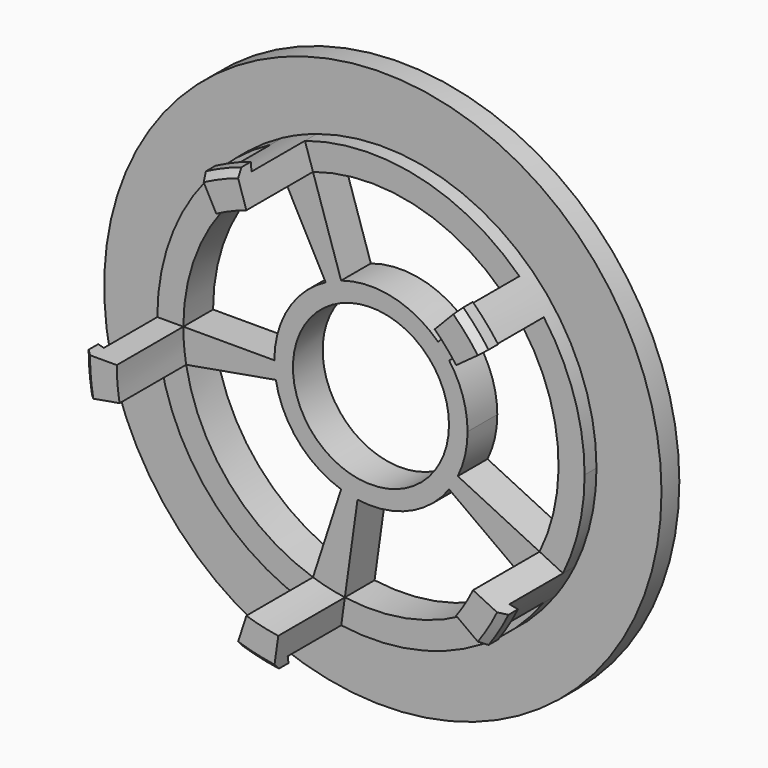
from build123d import *

# Parameters (mm, degrees)
F0_R     = 37.5
F0_R_2   = 28.75
F0_R_3   = 10.5
F1_DEPTH = 3
F3_ANGLE = 10
F4_COUNT = 5
F5_DEPTH = 5
F6_SIZE  = 0.9
F8_DEPTH = 25


with BuildPart() as f1:
    # F0 (on Front) → F1 (new body)
    with BuildSketch(Plane.XZ):
        Circle(F0_R)
        Circle(F0_R_2, mode=Mode.SUBTRACT)
        Circle(F0_R_2)
        Circle(F0_R_3, mode=Mode.SUBTRACT)
    extrude(amount=F1_DEPTH)

    # F2 (on Top) → F3 (revolve)
    with BuildSketch(Plane.XY):
        Polygon((-25.25, -16.2), (-25.25, -3), (-28.75, -3), (-28.75, -14), (-29.75, -13.7), (-29.75, -16.2), align=None)
    revolve(axis=Axis((0, 0, 0), (0, -1, 0)), revolution_arc=F3_ANGLE)

    # F4: F1 ×5 about axis
    f4_axis = Axis((0, 0, 0), (0, -1, 0))


with BuildPart() as f1_1:
    add(f1.part)
    for i in range(1, F4_COUNT):
        add(f1.part.rotate(f4_axis, i * 360 / F4_COUNT))

    # F0 (on Front) → F5 (join)
    with BuildSketch(Plane.XZ):
        Circle(F0_R_2)
        Circle(F0_R_3, mode=Mode.SUBTRACT)
    extrude(amount=F5_DEPTH)

    # F6
    f6_edges = [f1_1.edges().sort_by_distance(p)[0] for p in [
        (-29.636792, -16.2, -2.592883),
        (-6.692294, -16.2, -28.987509),
        (25.500727, -16.2, -15.322383),
        (22.45261, -16.2, 19.517756),
        (-11.624251, -16.2, 27.385019),
    ]]
    chamfer(f6_edges, length=F6_SIZE)

    # F7 (on face) → F8 (cut)
    with BuildSketch(Plane.XZ.offset(5)):
        with BuildLine():
            ThreePointArc((-13, 0), (-11.1431749091, 6.6954949738), (-6.1031303162, 11.4783187072))
            Line((-6.1031303162, 11.4783187072), (-11.8541569603, 22.2944267197))
            ThreePointArc((-11.8541569603, 22.2944267197), (-21.6434743427, 13.0047113915), (-25.25, 0))
            Line((-25.25, 0), (-13, 0))
        make_face()
        with BuildLine():
            Line((-7.802679108, -24.0141770365), (-4.0172209269, -12.3637347118))
            ThreePointArc((-4.0172209269, -12.3637347118), (-9.8112245429, -8.5287673769), (-12.8025007892, -2.2574263097))
            Line((-12.8025007892, -2.2574263097), (-24.8663957636, -4.3846164861))
            ThreePointArc((-24.8663957636, -4.3846164861), (-19.0564169006, -16.565490482), (-7.802679108, -24.0141770365))
        make_face()
        with BuildLine():
            Line((20.427679108, -14.8415776204), (10.5172209269, -7.6412082798))
            ThreePointArc((10.5172209269, -7.6412082798), (5.0795046704, -11.9665630949), (-1.8092503125, -12.8734848936))
            Line((-1.8092503125, -12.8734848936), (-3.5141207992, -25.0042687357))
            ThreePointArc((-3.5141207992, -25.0042687357), (9.8659609944, -23.2427475497), (20.427679108, -14.8415776204))
        make_face()
        with BuildLine():
            ThreePointArc((10.5172209269, 7.6412082798), (12.3637347118, 4.0172209269), (13, 0))
            ThreePointArc((13, 0), (12.6668108422, -2.9243637065), (11.6843226019, -5.6988249083))
            Line((11.6843226019, -5.6988249083), (22.6945496691, -11.0688714564))
            ThreePointArc((22.6945496691, -11.0688714564), (24.6028441358, -5.6800141222), (25.25, 0))
            ThreePointArc((25.25, 0), (24.0141770365, 7.802679108), (20.427679108, 14.8415776204))
            Line((20.427679108, 14.8415776204), (10.5172209269, 7.6412082798))
        make_face()
        with BuildLine():
            ThreePointArc((-4.0172209269, 12.3637347118), (2.9243637065, 12.6668108422), (9.030558816, 9.3514174044))
            Line((9.030558816, 9.3514174044), (17.5401238541, 18.1633299586))
            ThreePointArc((17.5401238541, 18.1633299586), (5.6800141222, 24.6028441358), (-7.802679108, 24.0141770365))
            Line((-7.802679108, 24.0141770365), (-4.0172209269, 12.3637347118))
        make_face()
    extrude(amount=-F8_DEPTH, mode=Mode.SUBTRACT)


solid = f1_1.part
